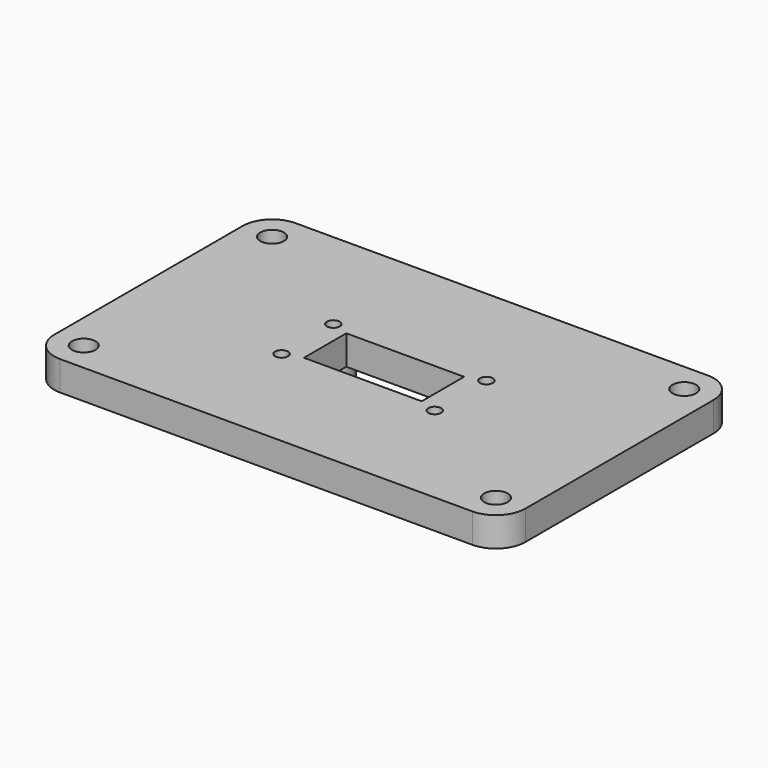
from build123d import *

# Parameters (mm, degrees)
PAD001_DEPTH    = 5
SKETCH006_R     = 2
POCKET003_DEPTH = 20
SKETCH008_R     = 3
PAD002_DEPTH    = 5
SKETCH007_R     = 1.1
SKETCH007_W     = 20
SKETCH007_H     = 9
POCKET004_DEPTH = 20


with BuildPart() as part:
    # Sketch005 → Pad001 (new body)
    with BuildSketch(Plane.XY):
        with BuildLine():
            ThreePointArc((-35, 25), (-38.535534, 23.535534), (-40, 20))
            Line((-40, -20), (-40, 20))
            ThreePointArc((-40, -20), (-38.535534, -23.535534), (-35, -25))
            Line((35, -25), (-35, -25))
            ThreePointArc((35, -25), (38.535534, -23.535534), (40, -20))
            Line((40, 20), (40, -20))
            ThreePointArc((40, 20), (38.535534, 23.535534), (35, 25))
            Line((-35, 25), (35, 25))
        make_face()
    extrude(amount=PAD001_DEPTH)

    # Sketch006 (on Face10 of Pad001) → Pocket003 (cut)
    with BuildSketch(Plane.XY.offset(5)):
        with Locations((-35, 20)):
            Circle(SKETCH006_R)
        with Locations((35, 20)):
            Circle(SKETCH006_R)
        with Locations((35, -20)):
            Circle(SKETCH006_R)
        with Locations((-35, -20)):
            Circle(SKETCH006_R)
    extrude(amount=-POCKET003_DEPTH, mode=Mode.SUBTRACT)

    # Sketch008 → Pad002 (join)
    with BuildSketch(Plane(origin=(0, 0, 0), x_dir=(1, 0, 0), z_dir=(0, 0, -1))):
        with Locations((-13, 5.5)):
            Circle(SKETCH008_R)
        with Locations((13, 5.5)):
            Circle(SKETCH008_R)
        with Locations((13, -5.5)):
            Circle(SKETCH008_R)
        with Locations((-13, -5.5)):
            Circle(SKETCH008_R)
    extrude(amount=PAD002_DEPTH)

    # Sketch007 (on Face5 of Pocket003) → Pocket004 (cut)
    with BuildSketch(Plane.XY.offset(5)):
        with Locations((-13, 5.5)):
            Circle(SKETCH007_R)
        with Locations((13, 5.5)):
            Circle(SKETCH007_R)
        with Locations((13, -5.5)):
            Circle(SKETCH007_R)
        with Locations((-13, -5.5)):
            Circle(SKETCH007_R)
        Rectangle(SKETCH007_W, SKETCH007_H)
    extrude(amount=-POCKET004_DEPTH, mode=Mode.SUBTRACT)


solid = part.part
